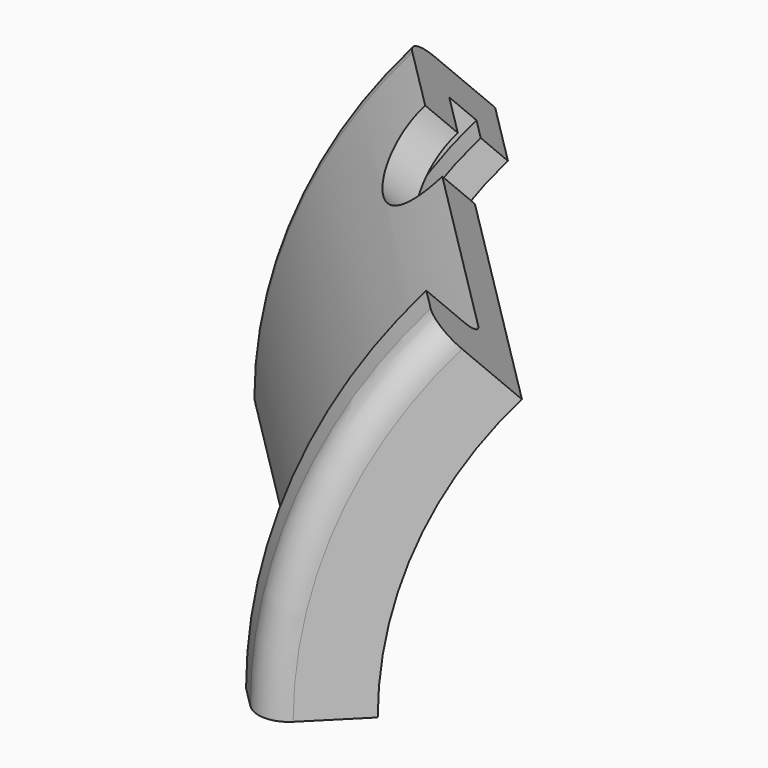
from build123d import *

# Parameters (mm, degrees)
BOX007_W               = 100
BOX007_H               = 100
BOX007_DEPTH           = 100
BOX007_PLACEMENT_ANGLE = 45
BOX006_W               = 200
BOX006_H               = 100
BOX006_DEPTH           = 100
BOX006_PLACEMENT_ANGLE = 45
BOX005_W               = 100
BOX005_H               = 100
BOX005_DEPTH           = 100
BOX005_PLACEMENT_ANGLE = -90
BOX004_W               = 20
BOX004_H               = 20
BOX004_DEPTH           = 80
BOX003_W               = 20
BOX003_H               = 20
BOX003_DEPTH           = 80
BOX002_W               = 10
BOX002_H               = 25
BOX002_DEPTH           = 35
BOX002_PITCH_ANGLE     = -15
BOX001_W               = 10
BOX001_H               = 25
BOX001_DEPTH           = 35
BOX001_PITCH_ANGLE     = 15
BOX_W                  = 20
BOX_H                  = 25
BOX_DEPTH              = 35
CYLINDER005_R          = 10
CYLINDER005_DEPTH      = 180
CYLINDER005_ROLL_ANGLE = 90
CYLINDER004_R          = 54
CYLINDER004_DEPTH      = 100
CYLINDER003_R          = 59
CYLINDER003_DEPTH      = 10
CYLINDER002_R          = 64
CYLINDER002_DEPTH      = 85
CYLINDER001_R          = 70
CYLINDER001_DEPTH      = 90
CYLINDER_R             = 80
CYLINDER_DEPTH         = 10
FILLET_R               = 3
FILLET001_R            = 5
FILLET002_R            = 5
CUT009_ROLL_ANGLE      = -90
CUT009_PITCH_ANGLE     = -45
CUT009_PLACEMENT_ANGLE = 45


with BuildPart() as cube004:
    # Box007 → Box007 (new body)
    with BuildSketch(Plane.XY):
        with Locations((50, 50)):
            Rectangle(BOX007_W, BOX007_H)
    extrude(amount=BOX007_DEPTH)


with BuildPart() as cube004_1:
    # Box007 placement: moved
    add(cube004.part.rotate(Axis((0, 0, 0), (0, 0, 1)), BOX007_PLACEMENT_ANGLE))


with BuildPart() as cube003:
    # Box006 → Box006 (new body)
    with BuildSketch(Plane.XY):
        with Locations((100, 50)):
            Rectangle(BOX006_W, BOX006_H)
    extrude(amount=BOX006_DEPTH)


with BuildPart() as cube003_1:
    # Box006 placement: moved
    add(cube003.part.moved(Location((-71, -71, 0))).rotate(Axis((-71, -71, 0), (0, 0, 1)), BOX006_PLACEMENT_ANGLE))


with BuildPart() as cube002:
    # Box005 → Box005 (new body)
    with BuildSketch(Plane.XY):
        with Locations((50, 50)):
            Rectangle(BOX005_W, BOX005_H)
    extrude(amount=BOX005_DEPTH)


with BuildPart() as cube002_1:
    # Box005 placement: moved
    add(cube002.part.rotate(Axis((0, 0, 0), (0, 0, 1)), BOX005_PLACEMENT_ANGLE))


with BuildPart() as tab_cut_l:
    # Box004 → Box004 (new body)
    with BuildSketch(Plane(origin=(-83, -10, 20), x_dir=(1, 0, 0), z_dir=(0, 0, 1))):
        with Locations((10, 10)):
            Rectangle(BOX004_W, BOX004_H)
    extrude(amount=BOX004_DEPTH)


with BuildPart() as tab_cut_r:
    # Box003 → Box003 (new body)
    with BuildSketch(Plane(origin=(63, -10, 20), x_dir=(1, 0, 0), z_dir=(0, 0, 1))):
        with Locations((10, 10)):
            Rectangle(BOX003_W, BOX003_H)
    extrude(amount=BOX003_DEPTH)


with BuildPart() as cube001:
    # Box002 → Box002 (new body)
    with BuildSketch(Plane.XY):
        with Locations((5, 12.5)):
            Rectangle(BOX002_W, BOX002_H)
    extrude(amount=BOX002_DEPTH)


with BuildPart() as cube001_1:
    # Box002 pitch: moved
    add(cube001.part.rotate(Axis((0, 0, 0), (0, 1, 0)), BOX002_PITCH_ANGLE))


with BuildPart() as cube001_2:
    # Box002 placement: moved
    add(cube001_1.part.moved(Location((-9.95, 48, 64))))


with BuildPart() as cube:
    # Box001 → Box001 (new body)
    with BuildSketch(Plane.XY):
        with Locations((5, 12.5)):
            Rectangle(BOX001_W, BOX001_H)
    extrude(amount=BOX001_DEPTH)


with BuildPart() as cube_1:
    # Box001 pitch: moved
    add(cube.part.rotate(Axis((0, 0, 0), (0, 1, 0)), BOX001_PITCH_ANGLE))


with BuildPart() as cube_2:
    # Box001 placement: moved
    add(cube_1.part.moved(Location((0, 48, 65))))


with BuildPart() as bearing_slot:
    # Box → Box (new body)
    with BuildSketch(Plane(origin=(-10, 48, 65), x_dir=(1, 0, 0), z_dir=(0, 0, 1))):
        with Locations((10, 12.5)):
            Rectangle(BOX_W, BOX_H)
    extrude(amount=BOX_DEPTH)


with BuildPart() as bearing_holes:
    # Cylinder005 → Cylinder005 (new body)
    with BuildSketch(Plane.XY):
        Circle(CYLINDER005_R)
    extrude(amount=CYLINDER005_DEPTH)


with BuildPart() as bearing_holes_1:
    # Cylinder005 roll: moved
    add(bearing_holes.part.rotate(Axis((0, 0, 0), (1, 0, 0)), CYLINDER005_ROLL_ANGLE))


with BuildPart() as bearing_holes_2:
    # Cylinder005 placement: moved
    add(bearing_holes_1.part.moved(Location((0, 90, 65))))


with BuildPart() as through_hole:
    # Cylinder004 → Cylinder004 (new body)
    with BuildSketch(Plane.XY):
        Circle(CYLINDER004_R)
    extrude(amount=CYLINDER004_DEPTH)


with BuildPart() as inner_lip:
    # Cylinder003 → Cylinder003 (new body)
    with BuildSketch(Plane.XY.offset(80)):
        Circle(CYLINDER003_R)
    extrude(amount=CYLINDER003_DEPTH)


with BuildPart() as inner_hole:
    # Cylinder002 → Cylinder002 (new body)
    with BuildSketch(Plane.XY):
        Circle(CYLINDER002_R)
    extrude(amount=CYLINDER002_DEPTH)


with BuildPart() as body_cylinder:
    # Cylinder001 → Cylinder001 (new body)
    with BuildSketch(Plane.XY.offset(5)):
        Circle(CYLINDER001_R)
    extrude(amount=CYLINDER001_DEPTH)


with BuildPart() as cut010:
    # Cylinder → Cylinder (new body)
    with BuildSketch(Plane.XY):
        Circle(CYLINDER_R)
    extrude(amount=CYLINDER_DEPTH)

    # Fusion: union Body_Cylinder
    add(body_cylinder.part)

    # Cut: cut Inner_Hole
    add(inner_hole.part, mode=Mode.SUBTRACT)

    # Fusion001: union Inner_Lip
    add(inner_lip.part)

    # Cut001: cut Through_Hole
    add(through_hole.part, mode=Mode.SUBTRACT)

    # Fillet
    fillet_edges = [cut010.edges().sort_by_distance(p)[0] for p in [
        (-70, 0, 10),
    ]]
    fillet(fillet_edges, radius=FILLET_R)

    # Fillet001
    fillet001_edges = [cut010.edges().sort_by_distance(p)[0] for p in [
        (-80, 0, 0),
    ]]
    fillet(fillet001_edges, radius=FILLET001_R)

    # Fillet002
    fillet002_edges = [cut010.edges().sort_by_distance(p)[0] for p in [
        (-70, 0, 95),
    ]]
    fillet(fillet002_edges, radius=FILLET002_R)

    # Cut002: cut Bearing_Holes
    add(bearing_holes_2.part, mode=Mode.SUBTRACT)

    # Cut003: cut Bearing_Slot
    add(bearing_slot.part, mode=Mode.SUBTRACT)

    # Cut004: cut Cube
    add(cube_2.part, mode=Mode.SUBTRACT)

    # Cut005: cut Cube001
    add(cube001_2.part, mode=Mode.SUBTRACT)

    # Cut006: cut Tab_Cut_R
    add(tab_cut_r.part, mode=Mode.SUBTRACT)

    # Cut007: cut Tab_Cut_L
    add(tab_cut_l.part, mode=Mode.SUBTRACT)

    # Cut008: cut Cube002
    add(cube002_1.part, mode=Mode.SUBTRACT)

    # Cut009: cut Cube003
    add(cube003_1.part, mode=Mode.SUBTRACT)


with BuildPart() as cut010_1:
    # Cut009 roll: moved
    add(cut010.part.rotate(Axis((0, 0, 0), (1, 0, 0)), CUT009_ROLL_ANGLE))


with BuildPart() as cut010_2:
    # Cut009 pitch: moved
    add(cut010_1.part.rotate(Axis((0, 0, 0), (0, 1, 0)), CUT009_PITCH_ANGLE))


with BuildPart() as cut010_3:
    # Cut009 placement: moved
    add(cut010_2.part.rotate(Axis((0, 0, 0), (0, 0, 1)), CUT009_PLACEMENT_ANGLE))

    # Cut010: cut Cube004
    add(cube004_1.part, mode=Mode.SUBTRACT)


solid = cut010_3.part
